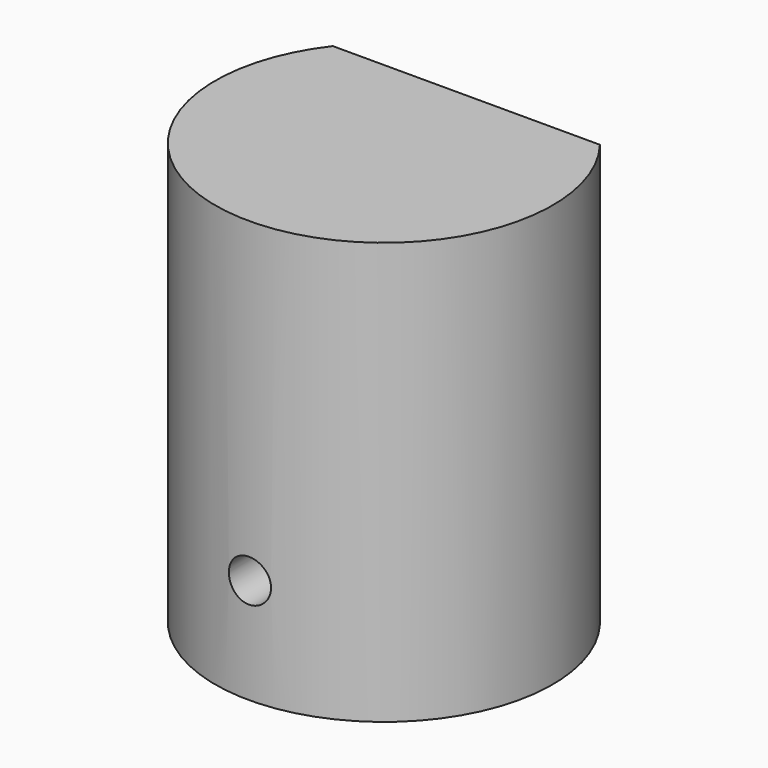
from build123d import *

# Parameters (mm, degrees)
F1_DEPTH = 127
F2_R     = 6.35
F3_DEPTH = 127


with BuildPart() as f1:
    # F0 (on Top) → F1 (new body)
    with BuildSketch(Plane.XY):
        with BuildLine():
            Line((40.215449, 31.038003), (-40.215449, 31.038003))
            ThreePointArc((-40.215449, 31.038003), (0, -50.8), (40.215449, 31.038003))
        make_face()
    extrude(amount=F1_DEPTH)

    # F2 (on face) → F3 (cut)
    with BuildSketch(Plane(origin=(0, 31.038003, 0), x_dir=(-1, 0, 0), z_dir=(0, 1, 0))):
        with Locations((0, 31.658955)):
            Circle(F2_R)
    extrude(amount=-F3_DEPTH, mode=Mode.SUBTRACT)


solid = f1.part
